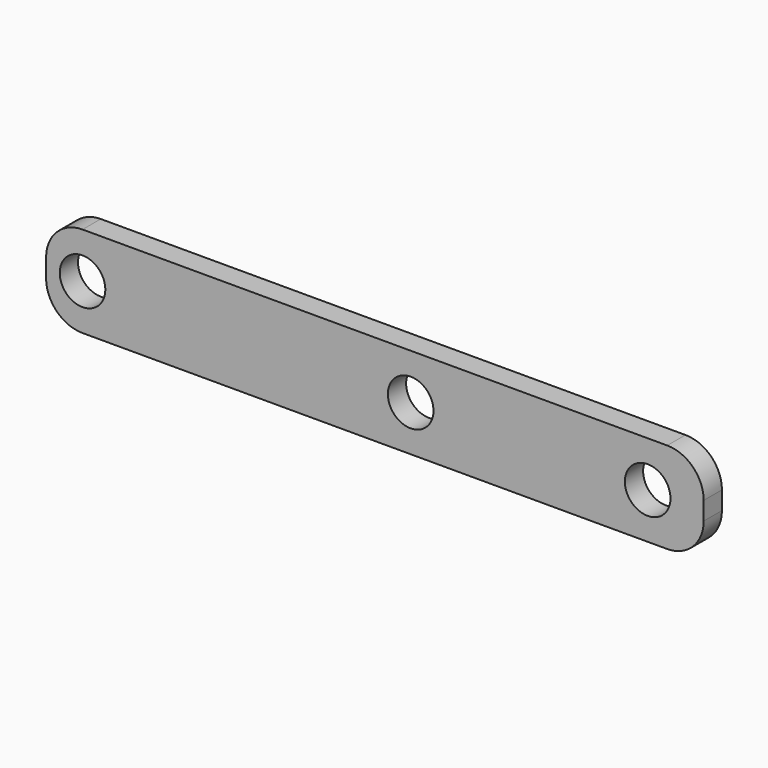
from build123d import *

# Parameters (mm, degrees)
F0_R     = 6.35
F1_DEPTH = 6.35


with BuildPart() as f1:
    # F0 (on Front) → F1 (new body)
    with BuildSketch(Plane.XZ):
        with BuildLine():
            ThreePointArc((81.650485, 2.54), (78.67469, 9.724205), (71.490485, 12.7))
            Line((71.490485, 12.7), (-91.44, 12.7))
            ThreePointArc((-91.44, 12.7), (-98.624205, 9.724205), (-101.6, 2.54))
            Line((-101.6, 2.54), (-101.6, -2.54))
            ThreePointArc((-101.6, -2.54), (-98.624205, -9.724205), (-91.44, -12.7))
            Line((-91.44, -12.7), (71.490485, -12.7))
            ThreePointArc((71.490485, -12.7), (78.67469, -9.724205), (81.650485, -2.54))
            Line((81.650485, -2.54), (81.650485, 2.54))
        make_face()
        with Locations((-91.44, 0)):
            Circle(F0_R, mode=Mode.SUBTRACT)
        Circle(F0_R, mode=Mode.SUBTRACT)
        with Locations((66.04, 0)):
            Circle(F0_R, mode=Mode.SUBTRACT)
    extrude(amount=F1_DEPTH)


solid = f1.part
